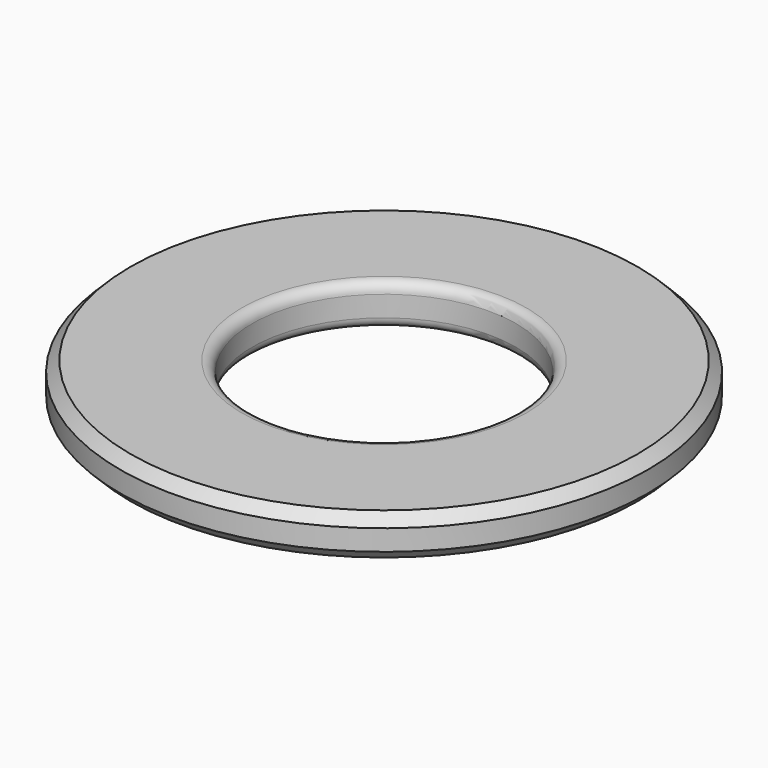
from build123d import *

# Parameters (mm, degrees)
F0_R     = 127
F0_R_2   = 63.5
F1_DEPTH = 20
F2_R     = 5
F3_SIZE  = 5
F4_SIZE  = 5
F5_R     = 5


with BuildPart() as f1:
    # F0 (on Top) → F1 (new body)
    with BuildSketch(Plane.XY):
        Circle(F0_R)
        Circle(F0_R_2, mode=Mode.SUBTRACT)
    extrude(amount=F1_DEPTH)

    # F2
    f2_edges = [f1.edges().sort_by_distance(p)[0] for p in [
        (-63.5, 0, 20),
    ]]
    fillet(f2_edges, radius=F2_R)

    # F3
    f3_edges = [f1.edges().sort_by_distance(p)[0] for p in [
        (-127, 0, 20),
    ]]
    chamfer(f3_edges, length=F3_SIZE)

    # F4
    f4_edges = [f1.edges().sort_by_distance(p)[0] for p in [
        (-127, 0, 0),
    ]]
    chamfer(f4_edges, length=F4_SIZE)

    # F5
    f5_edges = [f1.edges().sort_by_distance(p)[0] for p in [
        (-63.5, 0, 0),
    ]]
    fillet(f5_edges, radius=F5_R)


solid = f1.part
